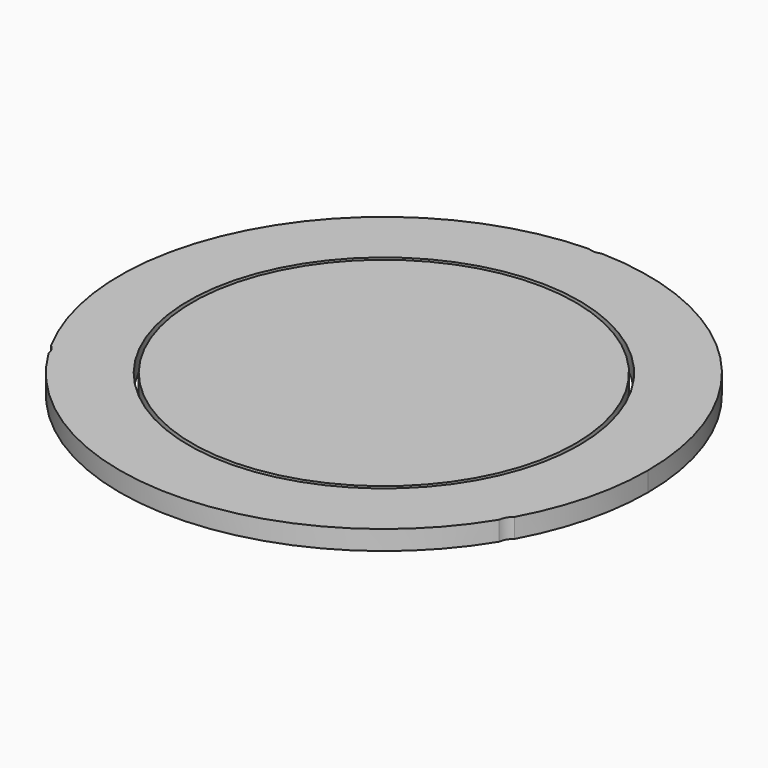
from build123d import *

# Parameters (mm, degrees)
F3_R     = 88.65
F0_DEPTH = 8.9916
F1_R     = 90.4875
F2_DEPTH = 8.9916


with BuildPart() as f0:
    # F3 (on Top) → F0 (new body)
    with BuildSketch(Plane.XY):
        Circle(F3_R)
    extrude(amount=F0_DEPTH)


with BuildPart() as f2:
    # F1 (on Top) → F2 (new body)
    with BuildSketch(Plane.XY):
        with BuildLine():
            ThreePointArc((107.314604, -58.528473), (118.448038, -30.200476), (122.2375, 0))
            ThreePointArc((122.2375, 0), (87.478772, 85.378398), (2.970157, 122.20141))
            ThreePointArc((2.970157, 122.20141), (0, 121.6), (-2.970157, 122.20141))
            ThreePointArc((-2.970157, 122.20141), (-105.86078, 61.11875), (-107.314604, -58.528473))
            ThreePointArc((-107.314604, -58.528473), (-105.308689, -60.8), (-104.344447, -63.672937))
            ThreePointArc((-104.344447, -63.672937), (0, -122.2375), (104.344447, -63.672937))
            ThreePointArc((104.344447, -63.672937), (105.308689, -60.8), (107.314604, -58.528473))
        make_face()
        Circle(F1_R, mode=Mode.SUBTRACT)
    extrude(amount=F2_DEPTH)


solid = Compound([f0.part, f2.part])
